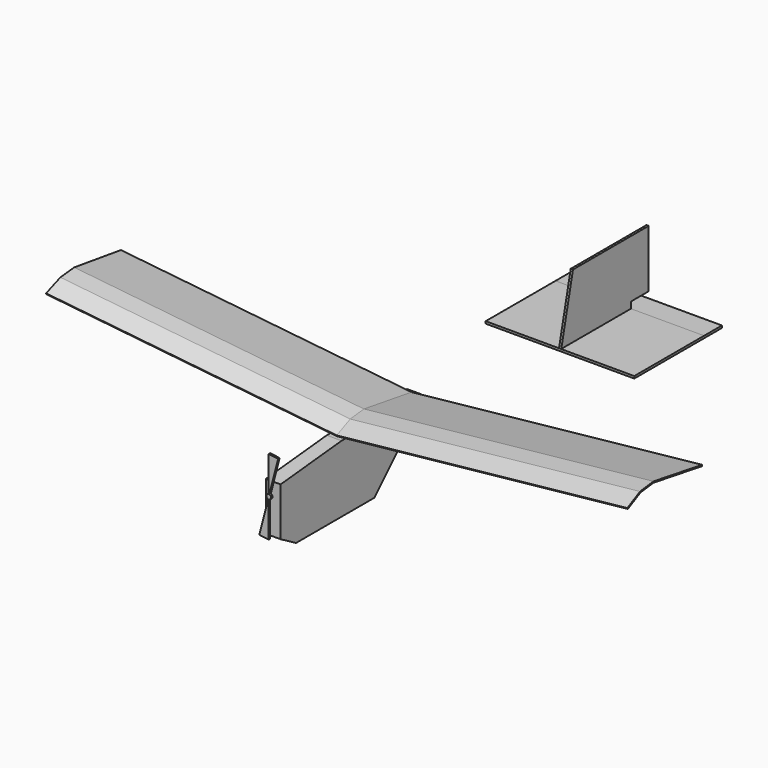
from build123d import *

# Parameters (mm, degrees)
F1_DEPTH  = 787
F3_DEPTH  = 250.464131
F6_ANGLE  = 6
F7_ANGLE  = -6
F9_DEPTH  = 3
F8_W      = 400
F8_H      = 60
F10_DEPTH = 3
F11_W     = 60
F11_H     = 155
F12_DEPTH = 3
F15_DEPTH = 5
F18_DEPTH = 20


with BuildPart() as f1:
    # F0 (on Right) → F1 (new body)
    with BuildSketch(Plane.YZ):
        Polygon((-1.218415, 2.741435), (0, 0), (45, 20), (90, 25), (250, 0), (250.463131, 2.964036), (90.067095, 28.025917), (44.206527, 22.930298), align=None)
        Polygon((-1.218415, 2.741435), (0, 0), (45, 20), (90, 25), (250, 0), (250.463131, 2.964036), (90.067095, 28.025917), (44.206527, 22.930298), align=None)
        Polygon((-1.218415, 2.741435), (0, 0), (45, 20), (90, 25), (250, 0), (250.463131, 2.964036), (90.067095, 28.025917), (44.206527, 22.930298), align=None)
    extrude(amount=F1_DEPTH)

    # F2 (on Front) → F3 (cut, through all)
    with BuildSketch(Plane.XZ):
        Polygon((-49.726095, 5.226423), (0, 0), (5.226423, 49.726095), (-44.499672, 54.952518), align=None)
    extrude(amount=-F3_DEPTH, mode=Mode.SUBTRACT)


with BuildPart() as f4_1:
    # F4: instance of F1
    add(f1.part.mirror(Plane.YZ))


with BuildPart() as f4_1_1:
    # F6: moved
    add(f4_1.part.rotate(Axis((0, 63.150704, 0), (0, 1, 0)), F6_ANGLE))


with BuildPart() as f1_1:
    # F7: moved
    add(f1.part.rotate(Axis((0, 63.150704, 0), (0, 1, 0)), F7_ANGLE))


with BuildPart() as f9:
    # F8 (on Top) → F9 (new body, symmetric)
    with BuildSketch(Plane.XY):
        Polygon((200, 235), (-200, 235), (-200, 0), (0, 0), (200, 0), align=None)
    extrude(amount=F9_DEPTH, both=True)


with BuildPart() as f10:
    # F8 (on Top) → F10 (new body, symmetric)
    with BuildSketch(Plane.XY):
        with Locations((0, 265)):
            Rectangle(F8_W, F8_H)
    extrude(amount=F10_DEPTH, both=True)


with BuildPart() as f12:
    # F11 (on Right) → F12 (new body, symmetric)
    with BuildSketch(Plane.YZ):
        Polygon((40, 175), (0, 0), (235, 0), (235, 20), (235, 175), align=None)
        with Locations((265, 97.5)):
            Rectangle(F11_W, F11_H)
    extrude(amount=F12_DEPTH, both=True)


with BuildPart() as f9_1:
    # F13: moved
    add(f9.part.moved(Location((0, 750, -100))))


with BuildPart() as f10_1:
    # F13: moved
    add(f10.part.moved(Location((0, 750, -100))))


with BuildPart() as f12_1:
    # F13: moved
    add(f12.part.moved(Location((0, 750, -100))))


with BuildPart() as f15:
    # F14 (on Front) → F15 (new body)
    with BuildSketch(Plane.XZ):
        with BuildLine():
            ThreePointArc((-1.58586, -6.148784), (-0.799287, -6.299495), (0, -6.35))
            ThreePointArc((0, -6.35), (4.490128, -4.490128), (6.35, 0))
            ThreePointArc((6.35, 0), (5.019597, 3.889234), (1.58586, 6.148784))
            Line((1.58586, 6.148784), (0, 0))
            Line((0, 0), (-1.58586, -6.148784))
        make_face()
        with BuildLine():
            Line((0, -101.6), (0, -6.35))
            ThreePointArc((0, -6.35), (-0.799287, -6.299495), (-1.58586, -6.148784))
            Line((-1.58586, -6.148784), (-25.373767, -98.380547))
            Line((-25.373767, -98.380547), (0, -101.6))
        make_face()
        with BuildLine():
            ThreePointArc((0, 6.35), (-6.299495, 0.799287), (-1.58586, -6.148784))
            Line((-1.58586, -6.148784), (0, 0))
            Line((0, 0), (1.58586, 6.148784))
            ThreePointArc((1.58586, 6.148784), (0.799287, 6.299495), (0, 6.35))
        make_face()
        with BuildLine():
            ThreePointArc((0, 6.35), (0.799287, 6.299495), (1.58586, 6.148784))
            Line((1.58586, 6.148784), (25.373767, 98.380547))
            Line((25.373767, 98.380547), (0, 101.6))
            Line((0, 101.6), (0, 6.35))
        make_face()
    extrude(amount=F15_DEPTH)


with BuildPart() as f15_1:
    # F16: moved
    add(f15.part.moved(Location((0, -225, -50))))


with BuildPart() as f18:
    # F17 (on Right) → F18 (new body, symmetric)
    with BuildSketch(Plane.YZ):
        Polygon((260, 0), (0, 0), (-10, 0), (-215, -20), (-215, -150), (-163.038476, -180), (100, -180), (180, -100), (330, -100), (330, -70), align=None)
    extrude(amount=F18_DEPTH, both=True)


solid = Compound([f4_1_1.part, f1_1.part, f9_1.part, f10_1.part, f12_1.part, f15_1.part, f18.part])
